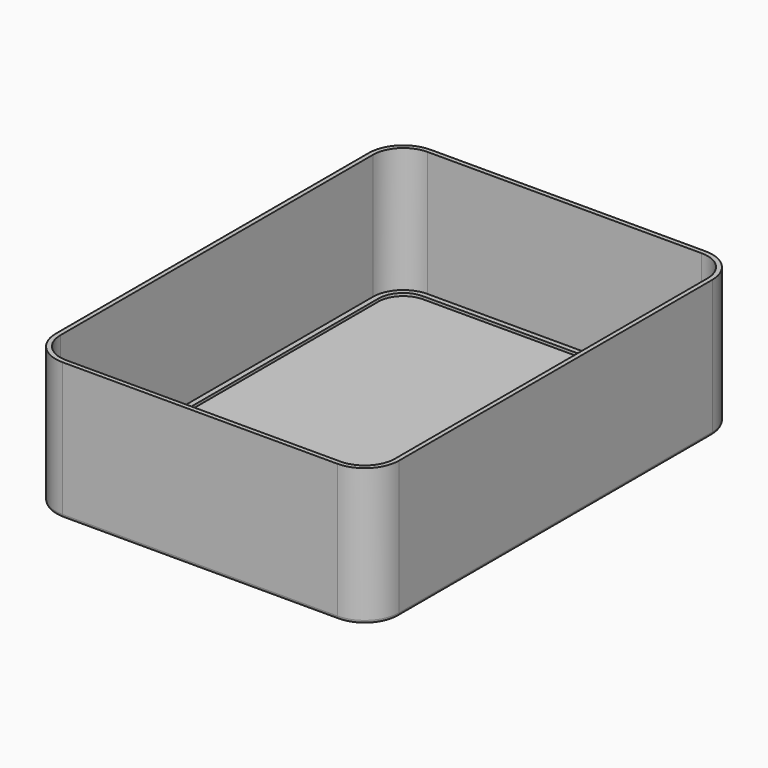
from build123d import *

# Parameters (mm, degrees)
F4_DEPTH = 1.8
F5_DEPTH = 20
F6_DEPTH = 1.4
F7_R     = 0.5


with BuildPart() as f4:
    # F3 (on Top) → F4 (new body)
    with BuildSketch(Plane.XY):
        with BuildLine():
            ThreePointArc((24.35, 28.45), (23.0612698372, 31.5612698372), (19.95, 32.85))
            Line((19.95, 32.85), (-19.95, 32.85))
            ThreePointArc((-19.95, 32.85), (-23.0612698372, 31.5612698372), (-24.35, 28.45))
            Line((-24.35, 28.45), (-24.35, -28.45))
            ThreePointArc((-24.35, -28.45), (-23.0612698372, -31.5612698372), (-19.95, -32.85))
            Line((-19.95, -32.85), (19.95, -32.85))
            ThreePointArc((19.95, -32.85), (23.0612698372, -31.5612698372), (24.35, -28.45))
            Line((24.35, -28.45), (24.35, 28.45))
        make_face()
        with BuildLine():
            Line((20, -32.1), (-20, -32.1))
            ThreePointArc((-20, -32.1), (-22.5455844123, -31.0455844123), (-23.6, -28.5))
            Line((-23.6, -28.5), (-23.6, 28.5))
            ThreePointArc((-23.6, 28.5), (-22.5455844123, 31.0455844123), (-20, 32.1))
            Line((-20, 32.1), (20, 32.1))
            ThreePointArc((20, 32.1), (22.5455844123, 31.0455844123), (23.6, 28.5))
            Line((23.6, 28.5), (23.6, -28.5))
            ThreePointArc((23.6, -28.5), (22.5455844123, -31.0455844123), (20, -32.1))
        make_face(mode=Mode.SUBTRACT)
    extrude(amount=F4_DEPTH)

    # F3 (on Top) → F5 (join)
    with BuildSketch(Plane.XY):
        with BuildLine():
            ThreePointArc((-25, -28.5), (-23.5355339059, -32.0355339059), (-20, -33.5))
            Line((-20, -33.5), (20, -33.5))
            ThreePointArc((20, -33.5), (23.5355339059, -32.0355339059), (25, -28.5))
            Line((25, -28.5), (25, 28.5))
            ThreePointArc((25, 28.5), (23.5355339059, 32.0355339059), (20, 33.5))
            Line((20, 33.5), (-20, 33.5))
            ThreePointArc((-20, 33.5), (-23.5355339059, 32.0355339059), (-25, 28.5))
            Line((-25, 28.5), (-25, -28.5))
        make_face()
        with BuildLine():
            Line((-19.95, 32.85), (19.95, 32.85))
            ThreePointArc((19.95, 32.85), (23.0612698372, 31.5612698372), (24.35, 28.45))
            Line((24.35, 28.45), (24.35, -28.45))
            ThreePointArc((24.35, -28.45), (23.0612698372, -31.5612698372), (19.95, -32.85))
            Line((19.95, -32.85), (-19.95, -32.85))
            ThreePointArc((-19.95, -32.85), (-23.0612698372, -31.5612698372), (-24.35, -28.45))
            Line((-24.35, -28.45), (-24.35, 28.45))
            ThreePointArc((-24.35, 28.45), (-23.0612698372, 31.5612698372), (-19.95, 32.85))
        make_face(mode=Mode.SUBTRACT)
    extrude(amount=F5_DEPTH)

    # F3 (on Top) → F6 (join)
    with BuildSketch(Plane.XY):
        with BuildLine():
            ThreePointArc((-23.6, -28.5), (-22.5455844123, -31.0455844123), (-20, -32.1))
            Line((-20, -32.1), (20, -32.1))
            ThreePointArc((20, -32.1), (22.5455844123, -31.0455844123), (23.6, -28.5))
            Line((23.6, -28.5), (23.6, 28.5))
            ThreePointArc((23.6, 28.5), (22.5455844123, 31.0455844123), (20, 32.1))
            Line((20, 32.1), (-20, 32.1))
            ThreePointArc((-20, 32.1), (-22.5455844123, 31.0455844123), (-23.6, 28.5))
            Line((-23.6, 28.5), (-23.6, -28.5))
        make_face()
    extrude(amount=F6_DEPTH)

    # F7
    f7_edges = [f4.edges().sort_by_distance(p)[0] for p in [
        (25, 0, 0),
    ]]
    fillet(f7_edges, radius=F7_R)


solid = f4.part
